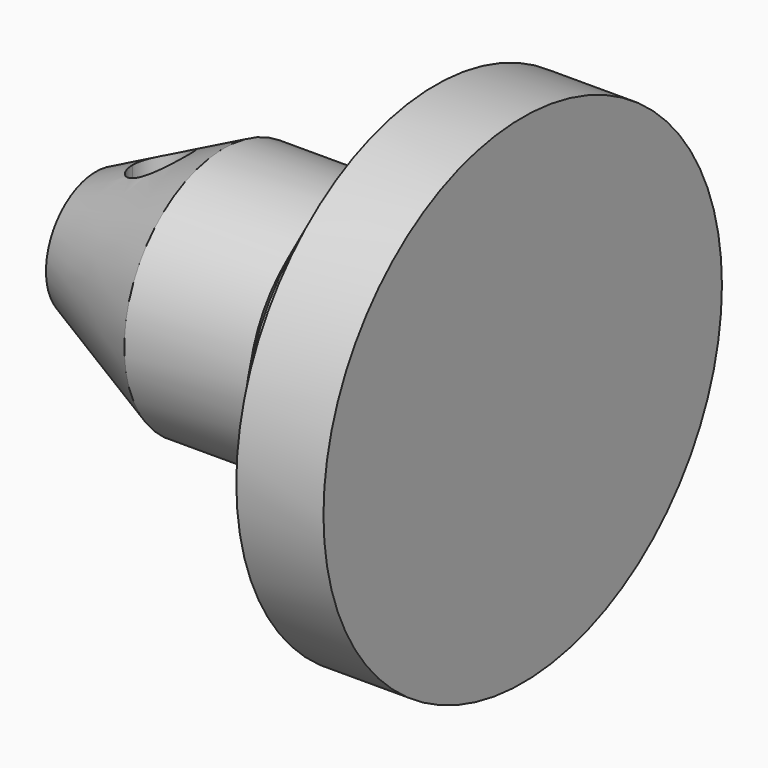
from build123d import *

# Parameters (mm, degrees)
F3_DEPTH      = 6.351
F3_DEPTH_BACK = 6.351


with BuildPart() as f1:
    # F0 (on Top) → F1 (revolve)
    with BuildSketch(Plane.XY):
        Polygon((3.175, 3.175), (0, 3.175), (-3.2651473302, 1.5875), (-3.2651473302, 0), (0, 0), (7.62, 0), (7.62, 6.35), (5.3975, 6.35), (5.3975, 4.7625), (4.28625, 4.7625), align=None)
    revolve(axis=Axis((3.81, 0, 0), (1, 0, 0)))

    # F2 (on Top) → F3 (cut, two sides)
    with BuildSketch(Plane.XY) as f3_sk:
        with BuildLine():
            ThreePointArc((-2.3242110538, 0), (-1.6139382496, -0.7102728041), (-0.9036654455, 0))
            Line((-0.9036654455, 0), (-2.3242110538, 0))
        make_face()
        with BuildLine():
            Line((-2.3242110538, 0), (-0.9036654455, 0))
            ThreePointArc((-0.9036654455, 0), (-1.6139382496, 0.7102728041), (-2.3242110538, 0))
        make_face()
    extrude(amount=-F3_DEPTH, mode=Mode.SUBTRACT)
    extrude(f3_sk.sketch, amount=F3_DEPTH_BACK, mode=Mode.SUBTRACT)


solid = f1.part
